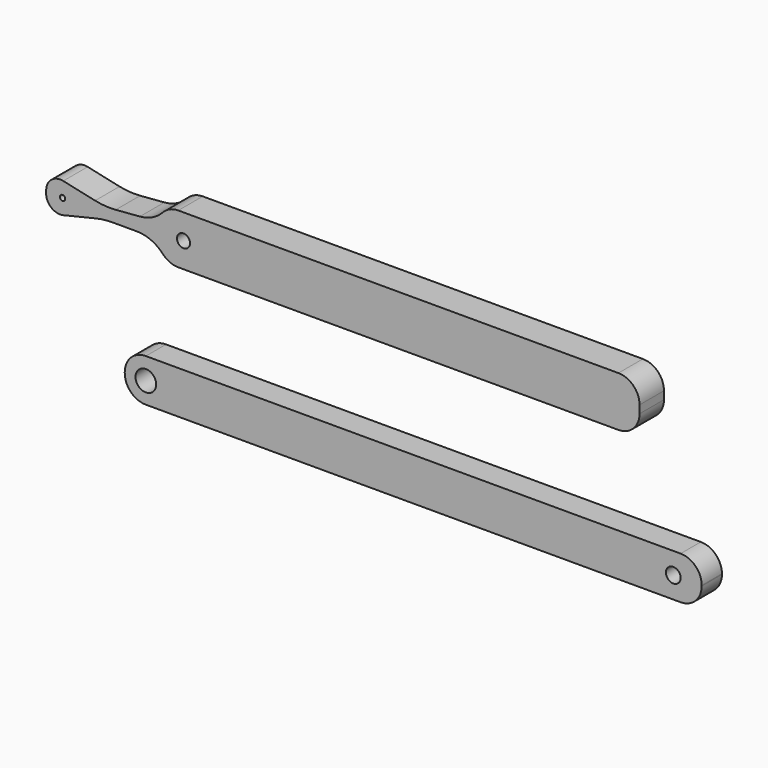
from build123d import *

# Parameters (mm, degrees)
F0_R     = 1.866827
F0_R_2   = 1.326995
F1_DEPTH = 4.558794
F2_R     = 0.487972
F2_R_2   = 1.18057
F3_DEPTH = 5.516583


with BuildPart() as f1:
    # F0 (on Front) → F1 (new body)
    with BuildSketch(Plane.XZ):
        with BuildLine():
            Line((48.875145, 33.627406), (-47.664679, 33.627406))
            ThreePointArc((-47.664679, 33.627406), (-50.358756, 32.511483), (-51.474679, 29.817406))
            Line((-51.474679, 29.817406), (-51.474679, 29.708066))
            ThreePointArc((-51.474679, 29.708066), (-50.358756, 27.013989), (-47.664679, 25.898066))
            Line((-47.664679, 25.898066), (48.875145, 25.898066))
            ThreePointArc((48.875145, 25.898066), (51.569222, 27.013989), (52.685145, 29.708066))
            Line((52.685145, 29.708066), (52.685145, 29.817406))
            ThreePointArc((52.685145, 29.817406), (51.569222, 32.511483), (48.875145, 33.627406))
        make_face()
        with Locations((-47.664679, 29.708066)):
            Circle(F0_R, mode=Mode.SUBTRACT)
        with Locations((47.549277, 29.762736)):
            Circle(F0_R_2, mode=Mode.SUBTRACT)
    extrude(amount=F1_DEPTH)


with BuildPart() as f3:
    # F2 (on Front) → F3 (new body)
    with BuildSketch(Plane.XZ):
        with BuildLine():
            Line((38.415045, 59.307553), (-41.044613, 59.307553))
            ThreePointArc((-41.044613, 59.307553), (-42.565116, 58.991), (-43.832957, 58.093943))
            ThreePointArc((-43.832957, 58.093943), (-45.714908, 56.704994), (-47.972051, 56.091623))
            Line((-47.972051, 56.091623), (-52.340625, 55.740913))
            ThreePointArc((-52.340625, 55.740913), (-54.207408, 55.728694), (-56.055815, 55.990272))
            Line((-56.055815, 55.990272), (-61.811895, 57.2421))
            ThreePointArc((-61.811895, 57.2421), (-63.908974, 56.766712), (-64.889967, 54.853237))
            Line((-64.889967, 54.853237), (-64.907651, 54.371188))
            ThreePointArc((-64.907651, 54.371188), (-63.979958, 52.313999), (-61.78092, 51.807171))
            Line((-61.78092, 51.807171), (-55.907303, 53.205959))
            ThreePointArc((-55.907303, 53.205959), (-54.446315, 53.464794), (-52.965109, 53.551466))
            Line((-52.965109, 53.551466), (-48.522339, 53.551466))
            ThreePointArc((-48.522339, 53.551466), (-45.970402, 53.016113), (-43.84876, 51.500322))
            ThreePointArc((-43.84876, 51.500322), (-42.575776, 50.590848), (-41.044613, 50.269636))
            Line((-41.044613, 50.269636), (38.415045, 50.269636))
            ThreePointArc((38.415045, 50.269636), (41.109122, 51.385559), (42.225045, 54.079636))
            Line((42.225045, 54.079636), (42.225045, 55.497553))
            ThreePointArc((42.225045, 55.497553), (41.109122, 58.19163), (38.415045, 59.307553))
        make_face()
        with Locations((-61.936602, 54.503542)):
            Circle(F2_R, mode=Mode.SUBTRACT)
        with Locations((-40.10062, 54.788594)):
            Circle(F2_R_2, mode=Mode.SUBTRACT)
        with BuildLine():
            Line((38.415045, 59.307553), (-41.044613, 59.307553))
            ThreePointArc((-41.044613, 59.307553), (-42.565116, 58.991), (-43.832957, 58.093943))
            ThreePointArc((-43.832957, 58.093943), (-45.714908, 56.704994), (-47.972051, 56.091623))
            Line((-47.972051, 56.091623), (-52.340625, 55.740913))
            ThreePointArc((-52.340625, 55.740913), (-54.207408, 55.728694), (-56.055815, 55.990272))
            Line((-56.055815, 55.990272), (-61.811895, 57.2421))
            ThreePointArc((-61.811895, 57.2421), (-63.908974, 56.766712), (-64.889967, 54.853237))
            Line((-64.889967, 54.853237), (-64.907651, 54.371188))
            ThreePointArc((-64.907651, 54.371188), (-63.979958, 52.313999), (-61.78092, 51.807171))
            Line((-61.78092, 51.807171), (-55.907303, 53.205959))
            ThreePointArc((-55.907303, 53.205959), (-54.446315, 53.464794), (-52.965109, 53.551466))
            Line((-52.965109, 53.551466), (-48.522339, 53.551466))
            ThreePointArc((-48.522339, 53.551466), (-45.970402, 53.016113), (-43.84876, 51.500322))
            ThreePointArc((-43.84876, 51.500322), (-42.575776, 50.590848), (-41.044613, 50.269636))
            Line((-41.044613, 50.269636), (38.415045, 50.269636))
            ThreePointArc((38.415045, 50.269636), (41.109122, 51.385559), (42.225045, 54.079636))
            Line((42.225045, 54.079636), (42.225045, 55.497553))
            ThreePointArc((42.225045, 55.497553), (41.109122, 58.19163), (38.415045, 59.307553))
        make_face()
        with Locations((-61.936602, 54.503542)):
            Circle(F2_R, mode=Mode.SUBTRACT)
        with Locations((-40.10062, 54.788594)):
            Circle(F2_R_2, mode=Mode.SUBTRACT)
    extrude(amount=F3_DEPTH)


solid = Compound([f1.part, f3.part])
